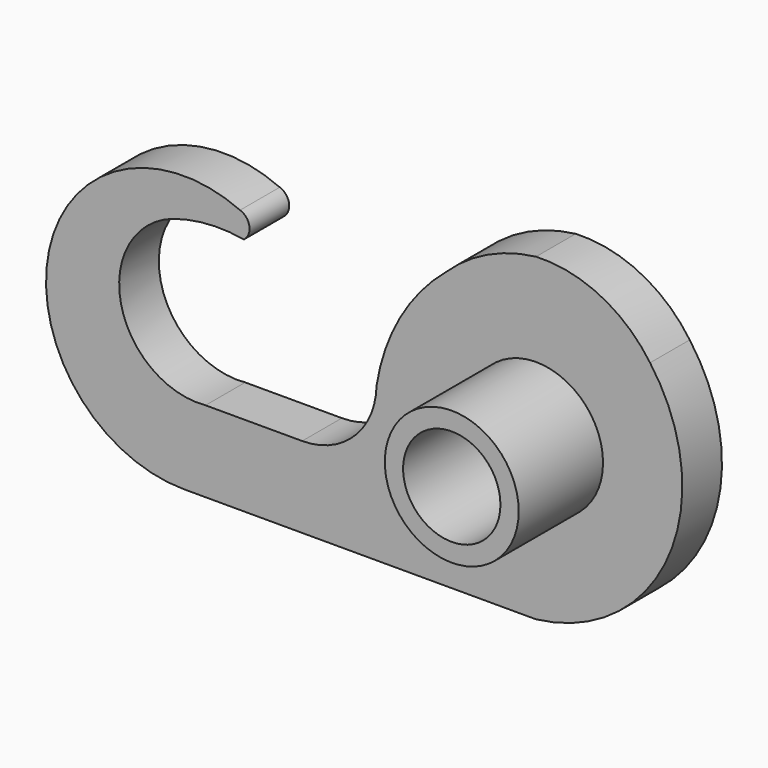
from build123d import *

# Parameters (mm, degrees)
F0_R     = 1.9939
F1_DEPTH = 2.032
F2_R     = 2.7432
F2_R_2   = 1.9939
F3_DEPTH = 4.318


with BuildPart() as f1:
    # F0 (on Front) → F1 (new body)
    with BuildSketch(Plane.XZ):
        with BuildLine():
            ThreePointArc((-3.6886774906, 4.7892003296), (-5.5707472579, 2.5336299725), (-6.5360625118, -0.2408881307))
            ThreePointArc((-6.5360625118, -0.2408881307), (-7.4509999469, -2.3544476099), (-9.5834042014, -3.2245604059))
            Line((-9.5834042014, -3.2245604059), (-13.5428459747, -3.2245604059))
            ThreePointArc((-13.5428459747, -3.2245604059), (-17.0080191324, -0.6859563699), (-14.9047917892, 3.0594902266))
            ThreePointArc((-14.9047917892, 3.0594902266), (-13.4518007595, 3.3451320132), (-11.9730629795, 3.2669735805))
            ThreePointArc((-11.9730629795, 3.2669735805), (-11.746814986, 3.8173410062), (-12.1273721857, 4.2747999394))
            ThreePointArc((-12.1273721857, 4.2747999394), (-19.9550226734, 0.2868008558), (-14.4265317516, -6.5405))
            Line((-14.4265317516, -6.5405), (0, -6.5405))
            ThreePointArc((0, -6.5405), (5.4303827393, -2.4959803043), (4.6703001439, 4.2322788102))
            ThreePointArc((4.6703001439, 4.2322788102), (2.6335498908, 5.9901516108), (0, 6.5405))
            ThreePointArc((0, 6.5405), (-1.9875582205, 5.9665063938), (-3.6886774906, 4.7892003296))
        make_face()
        Circle(F0_R, mode=Mode.SUBTRACT)
    extrude(amount=-F1_DEPTH)

    # F2 (on face) → F3 (join)
    with BuildSketch(Plane.XZ):
        Circle(F2_R)
        Circle(F2_R_2, mode=Mode.SUBTRACT)
    extrude(amount=F3_DEPTH)


solid = f1.part
